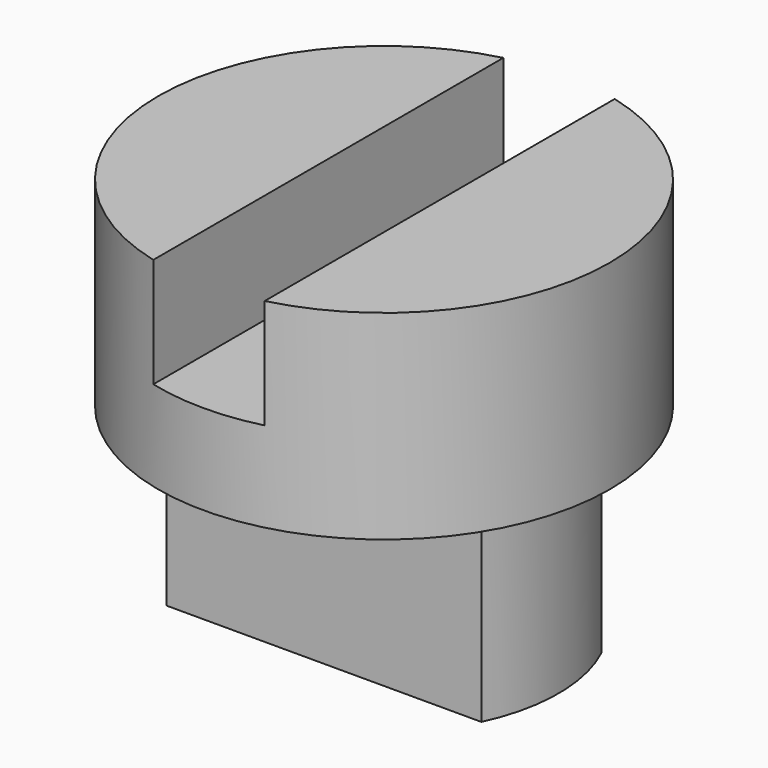
from build123d import *

# Parameters (mm, degrees)
F0_R     = 9.525
F1_DEPTH = 16.7005
F3_DEPTH = 4.6228
F4_R     = 9.525
F5_DEPTH = 8.2804


with BuildPart() as f1:
    # F0 (on Top) → F1 (new body)
    with BuildSketch(Plane.XY):
        Circle(F0_R)
    extrude(amount=F1_DEPTH)

    # F2 (on face) → F3 (cut)
    with BuildSketch(Plane.XY.offset(16.7005)):
        with BuildLine():
            ThreePointArc((2.3495, 9.230681), (0, 9.525), (-2.3495, 9.230681))
            Line((-2.3495, 9.230681), (-2.3495, -9.230681))
            ThreePointArc((-2.3495, -9.230681), (0, -9.525), (2.3495, -9.230681))
            Line((2.3495, -9.230681), (2.3495, 9.230681))
        make_face()
    extrude(amount=-F3_DEPTH, mode=Mode.SUBTRACT)

    # F4 (on face) → F5 (cut)
    with BuildSketch(Plane(origin=(0, 0, 0), x_dir=(1, 0, 0), z_dir=(0, 0, -1))):
        Circle(F4_R)
        with BuildLine():
            ThreePointArc((-6.646603, -3.175), (-7.366, 0), (-6.646603, 3.175))
            Line((-6.646603, 3.175), (6.646603, 3.175))
            ThreePointArc((6.646603, 3.175), (7.366, 0), (6.646603, -3.175))
            Line((6.646603, -3.175), (-6.646603, -3.175))
        make_face(mode=Mode.SUBTRACT)
    extrude(amount=-F5_DEPTH, mode=Mode.SUBTRACT)


solid = f1.part
